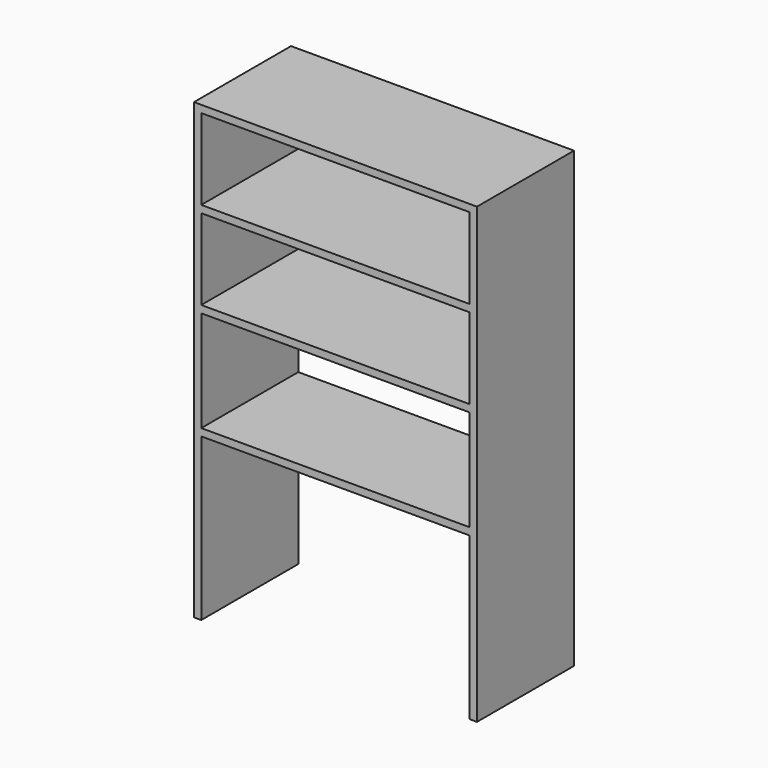
from build123d import *

# Parameters (mm, degrees)
F0_W     = 664
F0_H     = 250
F0_H_2   = 200
F1_DEPTH = 300


with BuildPart() as f1:
    # F0 (on Front) → F1 (new body)
    with BuildSketch(Plane.XZ):
        Polygon((0, 1122), (0, 0), (18, 0), (18, 400), (682, 400), (682, 0), (700, 0), (700, 1122), (682, 1122), (18, 1122), align=None)
        with Locations((350, 543)):
            Rectangle(F0_W, F0_H, mode=Mode.SUBTRACT)
        with Locations((350, 786)):
            Rectangle(F0_W, F0_H_2, mode=Mode.SUBTRACT)
        with Locations((350, 1004)):
            Rectangle(F0_W, F0_H_2, mode=Mode.SUBTRACT)
    extrude(amount=F1_DEPTH)


solid = f1.part
